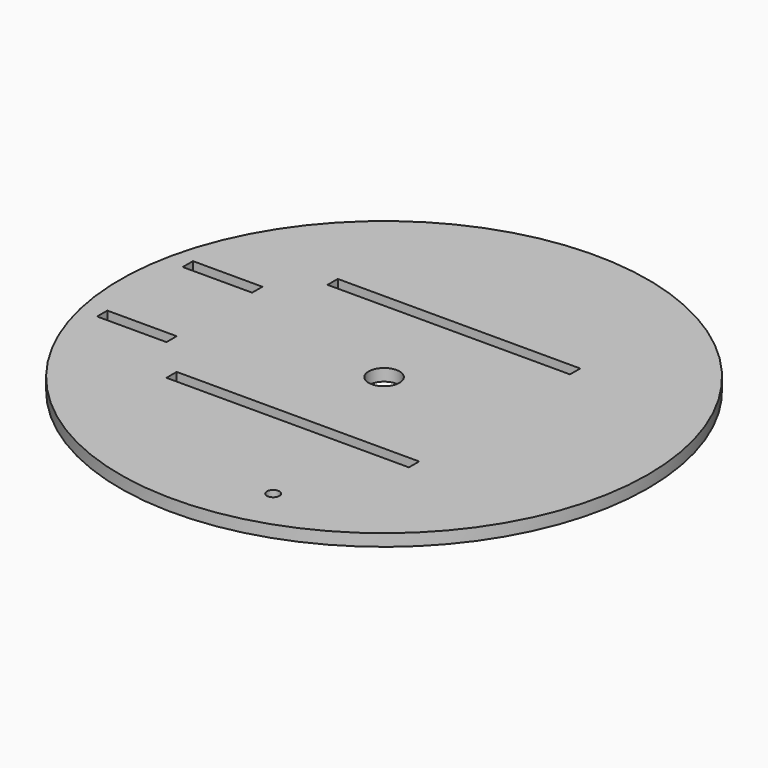
from build123d import *

# Parameters (mm, degrees)
F0_R     = 70
F0_W     = 18.4
F0_H     = 3.4
F0_W_2   = 64.3
F0_R_2   = 4.1
F1_DEPTH = 3.2
F2_R     = 1.65
F3_DEPTH = 3.2


with BuildPart() as f1:
    # F0 (on Top) → F1 (new body)
    with BuildSketch(Plane.XY):
        Circle(F0_R)
        with Locations((-54.2, -14.2)):
            Rectangle(F0_W, F0_H, mode=Mode.SUBTRACT)
        with Locations((-2.85, -26.7)):
            Rectangle(F0_W_2, F0_H, mode=Mode.SUBTRACT)
        with Locations((-54.2, 14.2)):
            Rectangle(F0_W, F0_H, mode=Mode.SUBTRACT)
        with Locations((-2.85, 26.7)):
            Rectangle(F0_W_2, F0_H, mode=Mode.SUBTRACT)
        Circle(F0_R_2, mode=Mode.SUBTRACT)
    extrude(amount=-F1_DEPTH)

    # F2 (on Top) → F3 (cut)
    with BuildSketch(Plane.XY):
        with Locations((14.707094, -55.149738)):
            Circle(F2_R)
    extrude(amount=-F3_DEPTH, mode=Mode.SUBTRACT)


solid = f1.part
